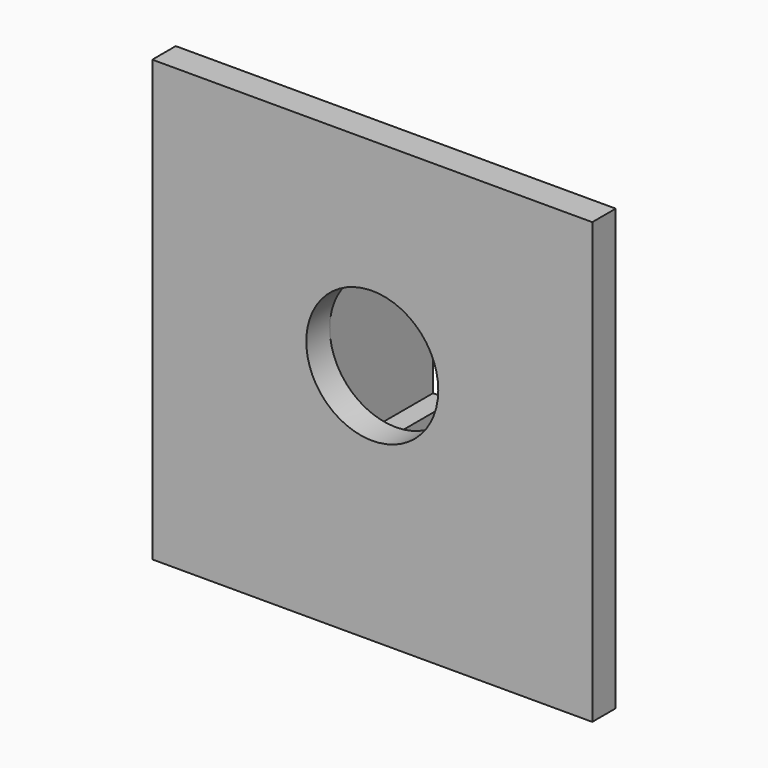
from build123d import *

# Parameters (mm, degrees)
F0_W     = 6.5
F0_H     = 8
F1_DEPTH = 5.4
F2_T     = -1
F3_W     = 3.1
F3_H     = 3.9
F4_DEPTH = 1
F5_W     = 15
F5_H     = 15
F6_DEPTH = 1
F7_R     = 2.25
F8_DEPTH = 25


with BuildPart() as f1:
    # F0 (on Front) → F1 (new body)
    with BuildSketch(Plane.XZ):
        Rectangle(F0_W, F0_H)
    extrude(amount=-F1_DEPTH)

    # F2
    f2_openings = [f1.faces().sort_by_distance(p)[0] for p in [
        (0, 5.4, 0),
    ]]
    offset(amount=F2_T, openings=f2_openings)

    # F3 (on face) → F4 (cut)
    with BuildSketch(Plane(origin=(0, 0, -4), x_dir=(1, 0, 0), z_dir=(0, 0, -1))):
        with Locations((0, -3.45)):
            Rectangle(F3_W, F3_H)
    extrude(amount=-F4_DEPTH, mode=Mode.SUBTRACT)

    # F5 (on face) → F6 (join)
    with BuildSketch(Plane.XZ):
        Rectangle(F5_W, F5_H)
    extrude(amount=-F6_DEPTH)

    # F7 (on face) → F8 (cut)
    with BuildSketch(Plane.XZ):
        with Locations((0, 0.75)):
            Circle(F7_R)
    extrude(amount=-F8_DEPTH, mode=Mode.SUBTRACT)


solid = f1.part
